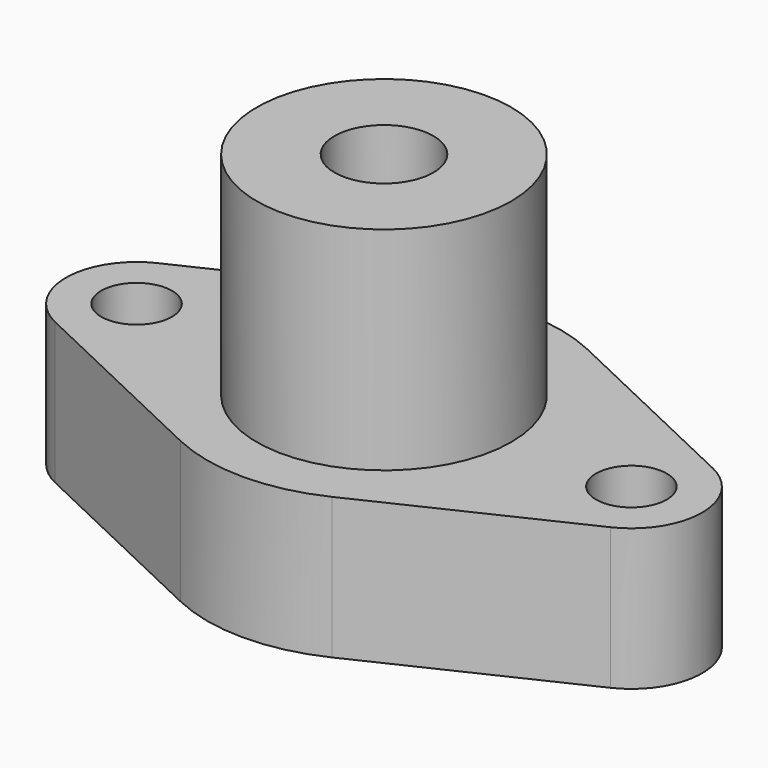
from build123d import *

# Parameters (mm, degrees)
F1_DEPTH = 10
F2_R     = 18
F3_DEPTH = 30
F5_D     = 14
F5_DEPTH = 25
F5_TIP   = 4.2060243332
F7_D     = 10
F7_DEPTH = 20
F7_TIP   = 3.0043030951


with BuildPart() as f1:
    # F0 (on Top) → F1 (new body, symmetric)
    with BuildSketch(Plane.XY):
        with BuildLine():
            Line((-39.2857142857, -9.0350790291), (-10.7142857143, -22.5876975726))
            ThreePointArc((-10.7142857143, -22.5876975726), (0, -25), (10.7142857143, -22.5876975726))
            Line((10.7142857143, -22.5876975726), (39.2857142857, -9.0350790291))
            ThreePointArc((39.2857142857, -9.0350790291), (45, 0), (39.2857142857, 9.0350790291))
            Line((39.2857142857, 9.0350790291), (10.7142857143, 22.5876975726))
            ThreePointArc((10.7142857143, 22.5876975726), (0, 25), (-10.7142857143, 22.5876975726))
            Line((-10.7142857143, 22.5876975726), (-39.2857142857, 9.0350790291))
            ThreePointArc((-39.2857142857, 9.0350790291), (-45, 0), (-39.2857142857, -9.0350790291))
        make_face()
    extrude(amount=F1_DEPTH, both=True)

    # F2 (on face) → F3 (join)
    with BuildSketch(Plane.XY.offset(10)):
        Circle(F2_R)
    extrude(amount=F3_DEPTH)

    # F5
    with Locations(Plane.XY.offset(40)):
        with Locations((0, 0)):
            Hole(F5_D / 2, depth=F5_DEPTH)
            with Locations((0, 0, -(F5_DEPTH + F5_TIP / 2))):  # 118° drill point
                Cone(0, F5_D / 2, F5_TIP, mode=Mode.SUBTRACT)

    # F7
    with Locations(Plane.XY.offset(10)):
        with Locations((-35, 0), (35, 0)):
            Hole(F7_D / 2, depth=F7_DEPTH)
            with Locations((0, 0, -(F7_DEPTH + F7_TIP / 2))):  # 118° drill point
                Cone(0, F7_D / 2, F7_TIP, mode=Mode.SUBTRACT)


solid = f1.part
